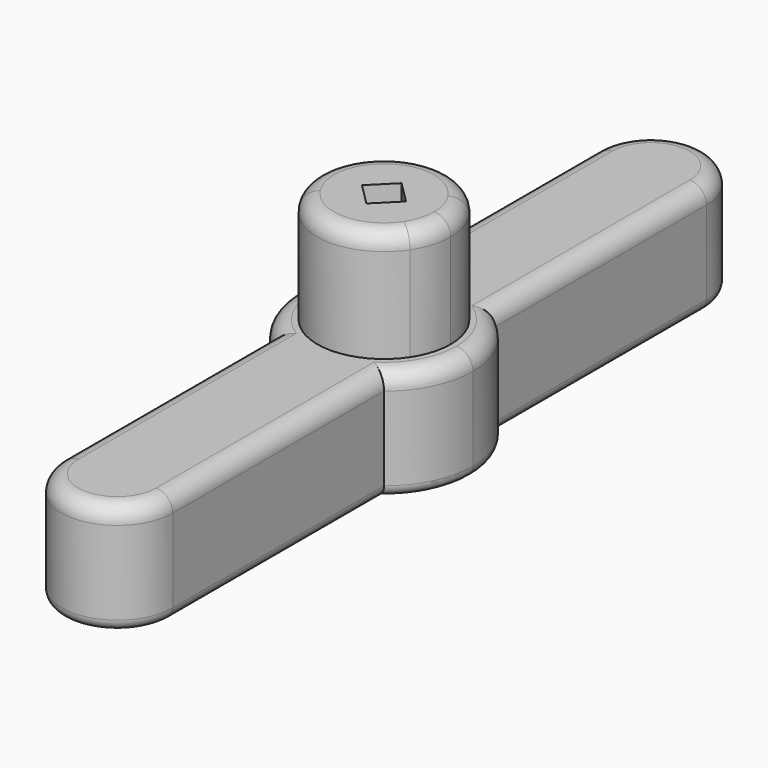
from build123d import *

# Parameters (mm, degrees)
F1_DEPTH  = 20
F2_DEPTH  = 10
F3_R      = 3.5197597043
F4_DEPTH  = 10
F6_DEPTH  = 1.5
F7_R      = 1.5
F8_R      = 1.5
F9_R      = 1
F11_DEPTH = 10


with BuildPart() as f1:
    # F0 (on Top) → F1 (new body)
    with BuildSketch(Plane.XY):
        with BuildLine():
            ThreePointArc((-5, -3.3166247904), (0, -6), (5, -3.3166247904))
            Line((5, -3.3166247904), (5, 3.3166247904))
            ThreePointArc((5, 3.3166247904), (0, 6), (-5, 3.3166247904))
            Line((-5, 3.3166247904), (-5, -3.3166247904))
        make_face()
        Polygon((2.8284271247, 0), (0, -2.8284271247), (-2.8284271247, 0), (0, 2.8284271247), align=None, mode=Mode.SUBTRACT)
        with BuildLine():
            Line((5, 3.3166247904), (5, -3.3166247904))
            ThreePointArc((5, -3.3166247904), (5.7445626465, -1.7320508076), (6, 0))
            ThreePointArc((6, 0), (5.7445626465, 1.7320508076), (5, 3.3166247904))
        make_face()
        with BuildLine():
            ThreePointArc((-5, 3.3166247904), (-6, 0), (-5, -3.3166247904))
            Line((-5, -3.3166247904), (-5, 3.3166247904))
        make_face()
    extrude(amount=F1_DEPTH)

    # F0 (on Top) → F2 (join)
    with BuildSketch(Plane.XY):
        with BuildLine():
            ThreePointArc((-5, -30), (0, -35), (5, -30))
            Line((5, -30), (-5, -30))
        make_face()
        with BuildLine():
            Line((-5, -30), (5, -30))
            Line((5, -30), (5, -6.2449979984))
            ThreePointArc((5, -6.2449979984), (0, -8), (-5, -6.2449979984))
            Line((-5, -6.2449979984), (-5, -30))
        make_face()
        with BuildLine():
            ThreePointArc((-5, -6.2449979984), (0, -8), (5, -6.2449979984))
            Line((5, -6.2449979984), (5, -3.3166247904))
            ThreePointArc((5, -3.3166247904), (0, -6), (-5, -3.3166247904))
            Line((-5, -3.3166247904), (-5, -6.2449979984))
        make_face()
        with BuildLine():
            Line((5, -3.3166247904), (5, -6.2449979984))
            ThreePointArc((5, -6.2449979984), (7.2111025509, -3.4641016151), (8, 0))
            ThreePointArc((8, 0), (7.2111025509, 3.4641016151), (5, 6.2449979984))
            Line((5, 6.2449979984), (5, 3.3166247904))
            ThreePointArc((5, 3.3166247904), (5.7445626465, 1.7320508076), (6, 0))
            ThreePointArc((6, 0), (5.7445626465, -1.7320508076), (5, -3.3166247904))
        make_face()
        with BuildLine():
            ThreePointArc((-5, 6.2449979984), (-8, 0), (-5, -6.2449979984))
            Line((-5, -6.2449979984), (-5, -3.3166247904))
            ThreePointArc((-5, -3.3166247904), (-6, 0), (-5, 3.3166247904))
            Line((-5, 3.3166247904), (-5, 6.2449979984))
        make_face()
        with BuildLine():
            ThreePointArc((5, 6.2449979984), (0, 8), (-5, 6.2449979984))
            Line((-5, 6.2449979984), (-5, 3.3166247904))
            ThreePointArc((-5, 3.3166247904), (0, 6), (5, 3.3166247904))
            Line((5, 3.3166247904), (5, 6.2449979984))
        make_face()
        with BuildLine():
            Line((-5, 30), (-5, 6.2449979984))
            ThreePointArc((-5, 6.2449979984), (0, 8), (5, 6.2449979984))
            Line((5, 6.2449979984), (5, 30))
            Line((5, 30), (-5, 30))
        make_face()
        with BuildLine():
            ThreePointArc((5, 30), (0, 35), (-5, 30))
            Line((-5, 30), (5, 30))
        make_face()
    extrude(amount=F2_DEPTH)

    # F3 (on Top) → F4 (join)
    with BuildSketch(Plane.XY):
        Circle(F3_R)
    extrude(amount=F4_DEPTH)

    # F5 (on face) → F6 (cut)
    with BuildSketch(Plane(origin=(0, 0, 0), x_dir=(1, 0, 0), z_dir=(0, 0, -1))):
        with BuildLine():
            add(Edge.make_bspline(
                [(2.6441919756, -3.1065111855), (2.204631474, -3.0232613545), (1.8208955538, -2.8584217506)],
                knots=[0.5050353738, 0.5050353738, 0.5050353738, 1, 1, 1], degree=2))
            Line((2.6441919756, -3.1065111855), (4.4951263987, -3.1065111855))
            add(Edge.make_bspline(
                [(5.439765355, -2.6959501369), (5.0621176878, -2.9862964082), (4.4951263987, -3.1065111855)],
                knots=[0, 0, 0, 0.5859606644, 0.5859606644, 0.5859606644], degree=2))
            add(Edge.make_bspline(
                [(6.084258561, -1.3119077185), (6.084258561, -2.2004454231), (5.439765355, -2.6959501369)],
                knots=[0, 0, 0, 1, 1, 1], degree=2))
            add(Edge.make_bspline(
                [(5.7013379114, -0.340448817), (6.084258561, -0.7011223162), (6.084258561, -1.3119077185)],
                knots=[0, 0, 0, 1, 1, 1], degree=2))
            add(Edge.make_bspline(
                [(4.5714523327, 0.1132582203), (5.3184172618, 0.0202246822), (5.7013379114, -0.340448817)],
                knots=[0, 0, 0, 1, 1, 1], degree=2))
            Line((4.5714523327, 0.1132582203), (4.5714523327, 0.1375278389))
            add(Edge.make_bspline(
                [(5.5536977314, 0.6943807554), (5.2038107294, 0.2898871115), (4.5714523327, 0.1375278389)],
                knots=[0, 0, 0, 1, 1, 1], degree=2))
            add(Edge.make_bspline(
                [(5.9035847334, 1.6759519981), (5.9035847334, 1.0988743994), (5.5536977314, 0.6943807554)],
                knots=[0, 0, 0, 1, 1, 1], degree=2))
            add(Edge.make_bspline(
                [(5.3494284412, 2.7539275592), (5.9035847334, 2.3662878171), (5.9035847334, 1.6759519981)],
                knots=[0, 0, 0, 1, 1, 1], degree=2))
            add(Edge.make_bspline(
                [(4.3779381685, 3.1065111855), (4.9619201154, 3.0249948188), (5.3494284412, 2.7539275592)],
                knots=[0.3007237646, 0.3007237646, 0.3007237646, 1, 1, 1], degree=2))
            Line((4.3779381685, 3.1065111855), (3.2967626907, 3.1065111855))
            add(Edge.make_bspline(
                [(1.8289854267, 2.5348268354), (2.4691218275, 2.9957250439), (3.2967626907, 3.1065111855)],
                knots=[0, 0, 0, 0.759629915, 0.759629915, 0.759629915], degree=2))
            Line((1.8289854267, 2.5348268354), (2.4316809562, 1.638199258))
            add(Edge.make_bspline(
                [(3.1287583359, 1.9874121039), (2.8146016058, 1.8862886929), (2.4316809562, 1.638199258)],
                knots=[0, 0, 0, 1, 1, 1], degree=2))
            add(Edge.make_bspline(
                [(3.746285299, 2.0885355149), (3.4429150661, 2.0885355149), (3.1287583359, 1.9874121039)],
                knots=[0, 0, 0, 1, 1, 1], degree=2))
            add(Edge.make_bspline(
                [(4.6226881942, 1.3887615109), (4.6226881942, 2.0885355149), (3.746285299, 2.0885355149)],
                knots=[0, 0, 0, 1, 1, 1], degree=2))
            add(Edge.make_bspline(
                [(4.2916775623, 0.7469649292), (4.6226881942, 0.9343803175), (4.6226881942, 1.3887615109)],
                knots=[0, 0, 0, 1, 1, 1], degree=2))
            add(Edge.make_bspline(
                [(3.2447131805, 0.5595495408), (3.9606669303, 0.5595495408), (4.2916775623, 0.7469649292)],
                knots=[0, 0, 0, 1, 1, 1], degree=2))
            Line((3.2447131805, 0.5595495408), (2.7687589928, 0.5595495408))
            Line((2.7687589928, 0.5595495408), (2.7687589928, -0.4395497598))
            Line((2.7687589928, -0.4395497598), (3.2366233076, -0.4395497598))
            add(Edge.make_bspline(
                [(4.3658347303, -0.6208977435), (4.0119027919, -0.4395497598), (3.2366233076, -0.4395497598)],
                knots=[0, 0, 0, 1, 1, 1], degree=2))
            add(Edge.make_bspline(
                [(4.7197666688, -1.2350539262), (4.7197666688, -0.8022457272), (4.3658347303, -0.6208977435)],
                knots=[0, 0, 0, 1, 1, 1], degree=2))
            add(Edge.make_bspline(
                [(4.4123514994, -1.9395470227), (4.7197666688, -1.7204462989), (4.7197666688, -1.2350539262)],
                knots=[0, 0, 0, 1, 1, 1], degree=2))
            add(Edge.make_bspline(
                [(3.4590948118, -2.1586477465), (4.10493633, -2.1586477465), (4.4123514994, -1.9395470227)],
                knots=[0, 0, 0, 1, 1, 1], degree=2))
            add(Edge.make_bspline(
                [(2.6083098474, -2.0447153702), (3.0384214221, -2.1586477465), (3.4590948118, -2.1586477465)],
                knots=[0, 0, 0, 1, 1, 1], degree=2))
            add(Edge.make_bspline(
                [(1.8208955538, -1.7501091661), (2.1781982727, -1.9307829938), (2.6083098474, -2.0447153702)],
                knots=[0, 0, 0, 1, 1, 1], degree=2))
            Line((1.8208955538, -1.7501091661), (1.8208955538, -2.8584217506))
        make_face()
        with BuildLine():
            Line((-0.5008979624, -3.1065111855), (0.7166279059, -3.1065111855))
            Line((0.7166279059, -3.1065111855), (0.7166279059, 3.0539270118))
            Line((0.7166279059, 3.0539270118), (-1.0604475032, 3.0539270118))
            Line((-1.0604475032, 3.0539270118), (-2.6069615352, -1.657075628))
            Line((-2.6069615352, -1.657075628), (-2.632579466, -1.657075628))
            Line((-2.632579466, -1.657075628), (-4.0901048964, 3.0539270118))
            Line((-4.0901048964, 3.0539270118), (-5.8685286176, 3.0539270118))
            Line((-5.8685286176, 3.0539270118), (-5.8685286176, -3.1065111855))
            Line((-5.8685286176, -3.1065111855), (-4.7008902987, -3.1065111855))
            Line((-4.7008902987, -3.1065111855), (-4.7008902987, -0.2413478742))
            add(Edge.make_bspline(
                [(-4.7817890275, 1.7258395475), (-4.7008902987, 0.2521343714), (-4.7008902987, -0.2413478742)],
                knots=[0, 0, 0, 1, 1, 1], degree=2))
            Line((-4.7817890275, 1.7258395475), (-4.7440362874, 1.7258395475))
            Line((-4.7440362874, 1.7258395475), (-3.2608929263, -3.1065111855))
            Line((-3.2608929263, -3.1065111855), (-2.0635917402, -3.1065111855))
            Line((-2.0635917402, -3.1065111855), (-0.4752800316, 1.7177496746))
            Line((-0.4752800316, 1.7177496746), (-0.4375272915, 1.7177496746))
            add(Edge.make_bspline(
                [(-0.4941564017, 0.2858421751), (-0.487414841, 0.5555046044), (-0.4375272915, 1.7177496746)],
                knots=[0, 0, 0, 1, 1, 1], degree=2))
            add(Edge.make_bspline(
                [(-0.5008979624, -0.1901120127), (-0.5008979624, 0.0161797458), (-0.4941564017, 0.2858421751)],
                knots=[0, 0, 0, 1, 1, 1], degree=2))
            Line((-0.5008979624, -0.1901120127), (-0.5008979624, -3.1065111855))
        make_face()
    extrude(amount=-F6_DEPTH, mode=Mode.SUBTRACT)

    # F7
    f7_edges = [f1.edges().sort_by_distance(p)[0] for p in [
        (5, -3.316625, 20),
    ]]
    fillet(f7_edges, radius=F7_R)

    # F8
    f8_edges = [f1.edges().sort_by_distance(p)[0] for p in [
        (0, -35, 10),
        (-5, -18.122499, 10),
        (-8, 0, 10),
        (-5, 18.122499, 10),
        (0, 35, 10),
        (5, 18.122499, 10),
        (8, 0, 10),
        (5, -18.122499, 10),
    ]]
    fillet(f8_edges, radius=F8_R)

    # F9
    f9_edges = [f1.edges().sort_by_distance(p)[0] for p in [
        (5, -18.122499, 0),
        (0, -35, 0),
        (-8, 0, 0),
        (-5, -18.122499, 0),
        (5, 18.122499, 0),
        (-5, 18.122499, 0),
        (0, 35, 0),
        (8, 0, 0),
    ]]
    fillet(f9_edges, radius=F9_R)

    # F10 (on face) → F11 (join)
    with BuildSketch(Plane.XY.offset(10)):
        Polygon((2.8284271247, 0), (0, 2.8284271247), (-2.8284271247, 0), (0, -2.8284271247), align=None)
        Polygon((-1.9798989873, 0), (0, 1.9798989873), (1.9798989873, 0), (0, -1.9798989873), align=None, mode=Mode.SUBTRACT)
    extrude(amount=F11_DEPTH)


solid = f1.part
